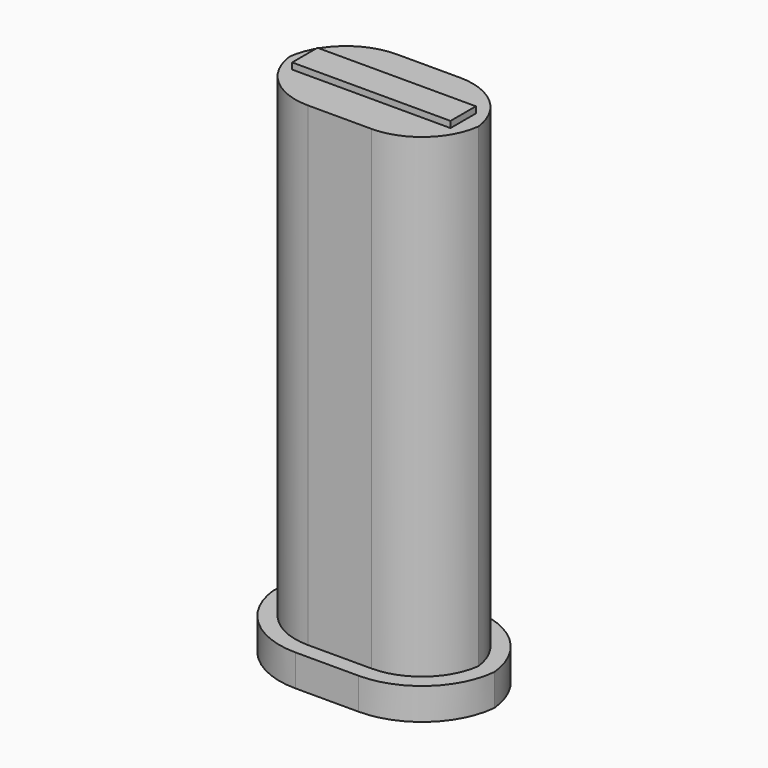
from build123d import *

# Parameters (mm, degrees)
F0_W     = 12.7
F0_H     = 2.54
F1_DEPTH = 38.608
F2_DEPTH = 38.1
F3_DEPTH = 2.54


with BuildPart() as f1:
    # F0 (on Top) → F1 (new body)
    with BuildSketch(Plane.XY):
        Rectangle(F0_W, F0_H)
    extrude(amount=F1_DEPTH)



with BuildPart() as f2:
    # F0 (on Top) → F2 (new body)
    with BuildSketch(Plane.XY):
        with BuildLine():
            Line((-2.54, -4.445), (2.54, -4.445))
            ThreePointArc((2.54, -4.445), (5.900104, -3.175), (7.580156, 0))
            ThreePointArc((7.580156, 0), (5.900104, 3.175), (2.54, 4.445))
            Line((2.54, 4.445), (-2.54, 4.445))
            ThreePointArc((-2.54, 4.445), (-5.900104, 3.175), (-7.580156, 0))
            ThreePointArc((-7.580156, 0), (-5.900104, -3.175), (-2.54, -4.445))
        make_face()
        Rectangle(F0_W, F0_H, mode=Mode.SUBTRACT)
        Rectangle(F0_W, F0_H)
    extrude(amount=F2_DEPTH)


with BuildPart() as f1_1:
    add(f1.part)

    add(f2.part)  # F3 merges F2
    # F0 (on Top) → F3 (join)
    with BuildSketch(Plane.XY):
        with BuildLine():
            Line((-2.54, -5.715), (2.54, -5.715))
            ThreePointArc((2.54, -5.715), (6.799709, -4.074286), (8.85817, 0))
            ThreePointArc((8.85817, 0), (6.799709, 4.074286), (2.54, 5.715))
            Line((2.54, 5.715), (-2.54, 5.715))
            ThreePointArc((-2.54, 5.715), (-6.799709, 4.074286), (-8.85817, 0))
            ThreePointArc((-8.85817, 0), (-6.799709, -4.074286), (-2.54, -5.715))
        make_face()
        with BuildLine():
            ThreePointArc((-7.62, 0.635), (-7.610029, 0.316876), (-7.580156, 0))
            ThreePointArc((-7.580156, 0), (-7.610029, -0.316876), (-7.62, -0.635))
            Line((-7.62, -0.635), (-7.62, 0.635))
        make_face(mode=Mode.SUBTRACT)
        with BuildLine():
            ThreePointArc((7.580156, 0), (5.900104, -3.175), (2.54, -4.445))
            Line((2.54, -4.445), (-2.54, -4.445))
            ThreePointArc((-2.54, -4.445), (-5.900104, -3.175), (-7.580156, 0))
            ThreePointArc((-7.580156, 0), (-5.900104, 3.175), (-2.54, 4.445))
            Line((-2.54, 4.445), (2.54, 4.445))
            ThreePointArc((2.54, 4.445), (5.900104, 3.175), (7.580156, 0))
        make_face(mode=Mode.SUBTRACT)
        with BuildLine():
            ThreePointArc((7.62, -0.635), (7.610029, -0.316876), (7.580156, 0))
            ThreePointArc((7.580156, 0), (7.610029, 0.316876), (7.62, 0.635))
            Line((7.62, 0.635), (7.62, -0.635))
        make_face(mode=Mode.SUBTRACT)
        with BuildLine():
            Line((-2.54, -4.445), (2.54, -4.445))
            ThreePointArc((2.54, -4.445), (5.900104, -3.175), (7.580156, 0))
            ThreePointArc((7.580156, 0), (5.900104, 3.175), (2.54, 4.445))
            Line((2.54, 4.445), (-2.54, 4.445))
            ThreePointArc((-2.54, 4.445), (-5.900104, 3.175), (-7.580156, 0))
            ThreePointArc((-7.580156, 0), (-5.900104, -3.175), (-2.54, -4.445))
        make_face()
        Rectangle(F0_W, F0_H, mode=Mode.SUBTRACT)
        Rectangle(F0_W, F0_H)
        with BuildLine():
            ThreePointArc((7.62, 0.635), (7.610029, 0.316876), (7.580156, 0))
            ThreePointArc((7.580156, 0), (7.610029, -0.316876), (7.62, -0.635))
            Line((7.62, -0.635), (7.62, 0.635))
        make_face()
        with BuildLine():
            ThreePointArc((-7.62, -0.635), (-7.610029, -0.316876), (-7.580156, 0))
            ThreePointArc((-7.580156, 0), (-7.610029, 0.316876), (-7.62, 0.635))
            Line((-7.62, 0.635), (-7.62, -0.635))
        make_face()
    extrude(amount=-F3_DEPTH)


solid = f1_1.part
